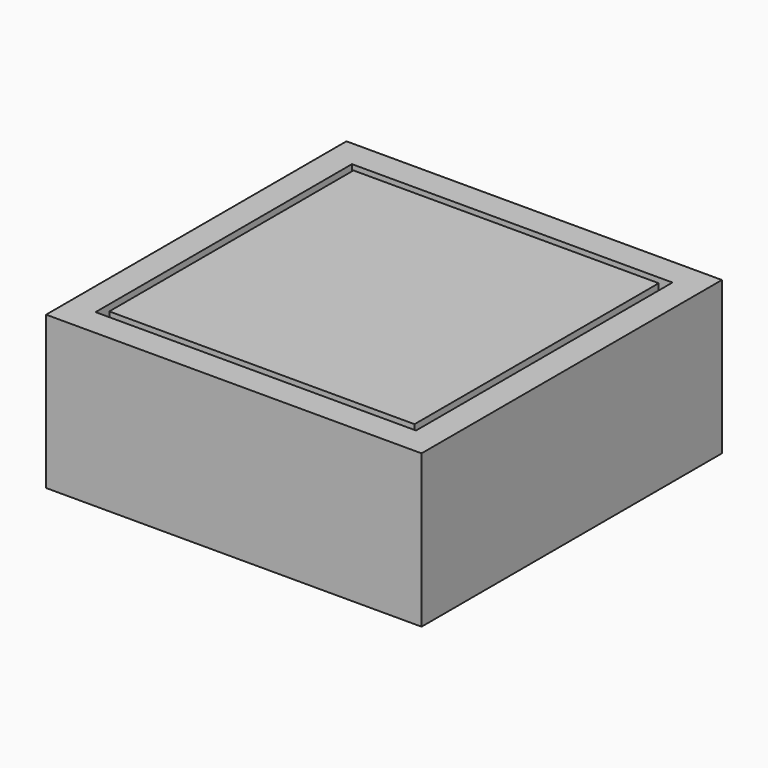
from build123d import *

# Parameters (mm, degrees)
F0_W     = 200
F0_H     = 200
F1_DEPTH = 30
F2_W     = 246
F2_H     = 246
F2_W_2   = 210
F2_H_2   = 210
F3_DEPTH = 100
F4_W     = 68.82748
F4_H     = 68.82748
F5_DEPTH = 25


with BuildPart() as f1:
    # F0 (on Top) → F1 (new body)
    with BuildSketch(Plane.XY):
        Rectangle(F0_W, F0_H)
    extrude(amount=F1_DEPTH)

    # F4 (on face) → F5 (join)
    with BuildSketch(Plane(origin=(0, 0, 0), x_dir=(1, 0, 0), z_dir=(0, 0, -1))):
        Rectangle(F4_W, F4_H)
    extrude(amount=F5_DEPTH)


with BuildPart() as f3:
    # F2 (on face) → F3 (new body)
    with BuildSketch(Plane.XY.offset(30)):
        Rectangle(F2_W, F2_H)
        Rectangle(F2_W_2, F2_H_2, mode=Mode.SUBTRACT)
    extrude(amount=-F3_DEPTH)


solid = Compound([f1.part, f3.part])
